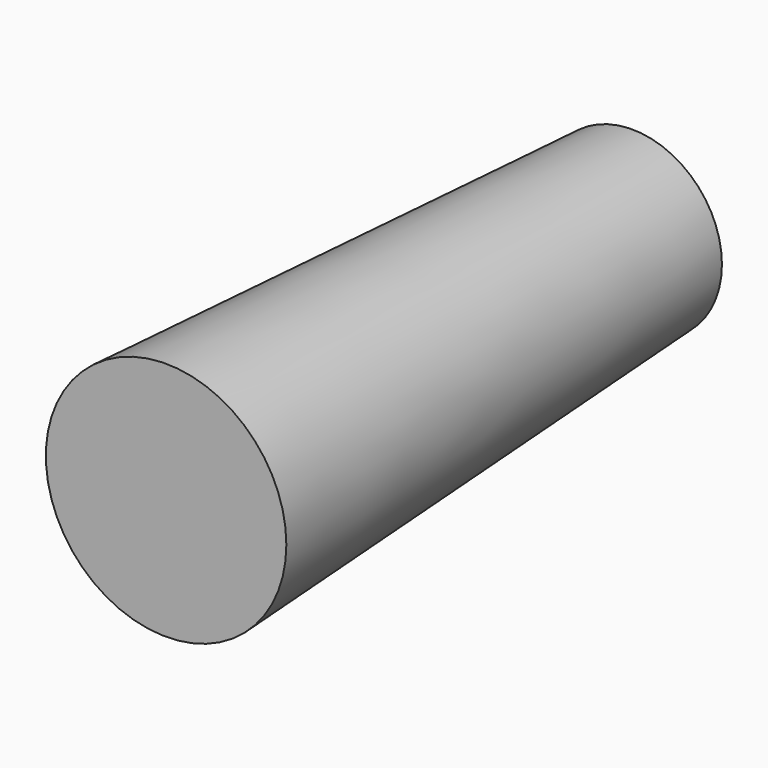
from build123d import *

# Parameters (mm, degrees)
F0_R     = 39.1099656431
F1_DEPTH = 254
F1_TAPER = -3


with BuildPart() as f1:
    # F0 (on Front) → F1 (new body)
    with BuildSketch(Plane.XZ):
        with Locations((0, -17.5514481962)):
            Circle(F0_R)
    extrude(amount=F1_DEPTH, taper=F1_TAPER)


solid = f1.part
